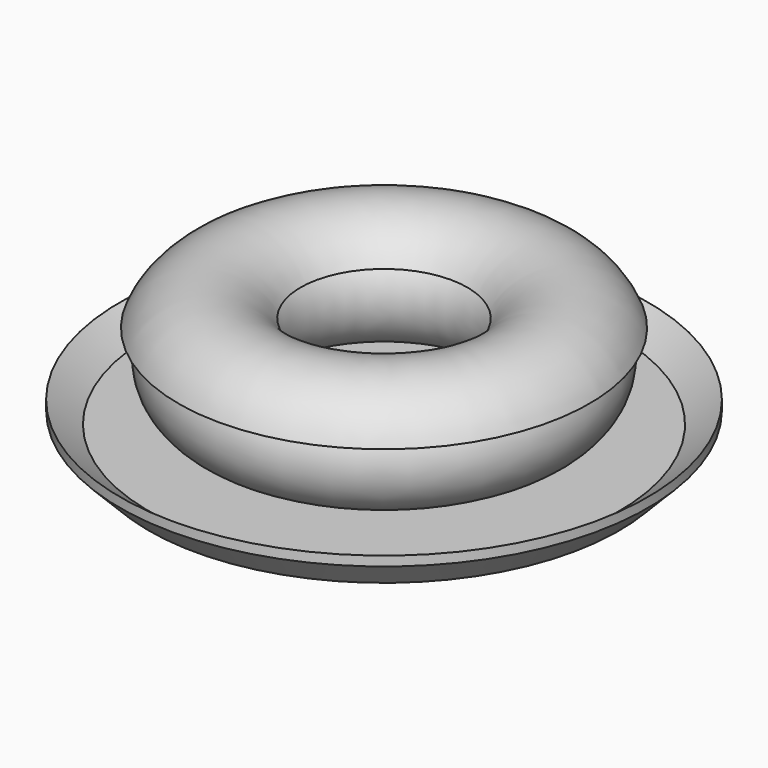
from build123d import *

# Parameters (mm, degrees)
F0_R = 17.469191


with BuildPart() as f1:
    # F0 (on Right) → F1 (revolve)
    with BuildSketch(Plane.YZ):
        with BuildLine():
            Line((63.40323, 7.136942), (65.8601, 7.979904))
            ThreePointArc((65.8601, 7.979904), (47.151502, 21.668164), (26.743514, 10.672978))
            Line((26.743514, 10.672978), (29.121777, 9.605493))
            ThreePointArc((29.121777, 9.605493), (47.033315, 19.075686), (63.40323, 7.136942))
        make_face()
        with Locations((45.659706, 0)):
            Circle(F0_R)
        Polygon((75.370617, -19.252276), (0, -19.252276), (0, -24.782185), (75.370617, -24.782185), (84.587127, -15.360859), (84.587127, -12.288687), align=None)
    revolve(axis=Axis((0, 0, -3.882907), (0, 0, -1)))


solid = f1.part
